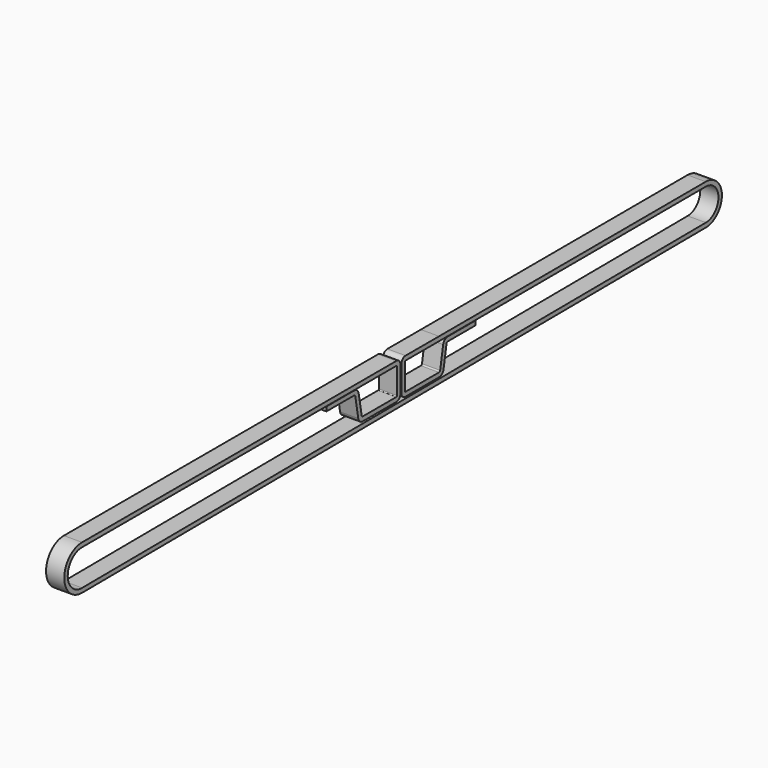
from build123d import *

# Parameters (mm, degrees)
SKETCH001_W = 6.3
SKETCH001_H = 1.5


with BuildPart() as y_belt_seg2:
    # Sweep001: sweep along a path in Sketch002
    with BuildLine(Plane.YZ) as sweep001_path:
        Line((-16.5, 34.3), (-2, 34.3))
        ThreePointArc((-2, 34.3), (-1.787868, 34.212132), (-1.7, 34))
        Line((-1.7, 34), (-1.7, 25.1))
        ThreePointArc((-1.7, 25.1), (-1.787868, 24.887868), (-2, 24.8))
        Line((-2, 24.8), (-16.5, 24.8))
        ThreePointArc((-16.5, 24.8), (-16.821394, 24.916978), (-16.992404, 25.213176))
        Line((-16.992404, 25.213176), (-18.285606, 32.547297))
        ThreePointArc((-18.285606, 32.547297), (-18.969647, 33.732089), (-20.255221, 34.2))
        Line((-20.255221, 34.2), (-32.255221, 34.2))
    # Sketch001 → Sweep001 (sweep)
    with BuildSketch(Plane(origin=(0, -16.5, 35.05), x_dir=(1, 0, 0), z_dir=(0, -1, 0))):
        Rectangle(SKETCH001_W, SKETCH001_H)
    sweep(path=sweep001_path.line)


with BuildPart() as part_mirroring:
    # Part__Mirroring: instance of y-belt-seg2
    add(y_belt_seg2.part.mirror(Plane(origin=(0, 0, 0), x_dir=(1, 0, 0), z_dir=(0, 1, 0))))


with BuildPart() as y_belt:
    # Sweep: sweep along a path in Sketch
    with BuildLine(Plane.YZ) as sweep_path:
        Line((16.5, 34.3), (131.990476, 34.499992))
        ThreePointArc((131.990476, 34.499992), (137.49996, 29.021053), (132.032583, 23.500097))
        Line((132.032583, 23.500097), (-138.041883, 21.900109))
        ThreePointArc((-138.041883, 21.900109), (-144.278585, 28.081635), (-138.078613, 34.3))
        Line((-138.078613, 34.3), (-16.5, 34.3))
    # Sketch001 → Sweep (sweep)
    with BuildSketch(Plane(origin=(0, -16.5, 35.05), x_dir=(1, 0, 0), z_dir=(0, -1, 0))):
        Rectangle(SKETCH001_W, SKETCH001_H)
    sweep(path=sweep_path.line)

    # Fusion: union Part__Mirroring, y-belt-seg2
    add(part_mirroring.part)
    add(y_belt_seg2.part)


solid = y_belt.part
